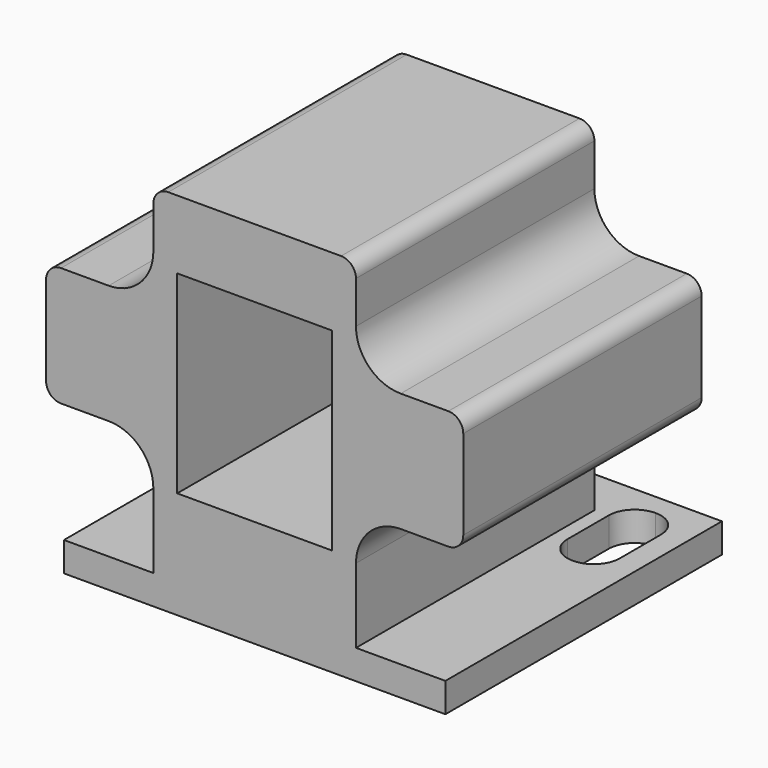
from build123d import *

# Parameters (mm, degrees)
F0_W     = 17.272
F0_H     = 10.16
F0_H_2   = 8.670134
F1_DEPTH = 25.4
F2_W     = 32.512
F2_H     = 2.505866
F3_DEPTH = 4.064
F4_R     = 3.81
F5_R     = 1.27
F6_W     = 13.208
F6_H     = 16.51
F7_DEPTH = 21.844
F9_DEPTH = 5.08


with BuildPart() as f1:
    # F0 (on Front) → F1 (new body)
    with BuildSketch(Plane.XZ):
        Polygon((-16.256, 2.505866), (-16.256, 0), (16.256, 0), (16.256, 2.505866), (8.636, 2.505866), (-8.636, 2.505866), align=None)
        with Locations((0, 7.585866)):
            Rectangle(F0_W, F0_H)
        Polygon((-17.78, 12.665866), (-8.636, 12.665866), (8.636, 12.665866), (17.78, 12.665866), (17.78, 22.825866), (8.636, 22.825866), (-8.636, 22.825866), (-17.78, 22.825866), align=None)
        with Locations((0, 27.160933)):
            Rectangle(F0_W, F0_H_2)
    extrude(amount=-F1_DEPTH)

    # F2 (on face) → F3 (join)
    with BuildSketch(Plane(origin=(0, 25.4, 0), x_dir=(-1, 0, 0), z_dir=(0, 1, 0))):
        with Locations((0, 1.252933)):
            Rectangle(F2_W, F2_H)
    extrude(amount=F3_DEPTH)

    # F4
    f4_edges = [f1.edges().sort_by_distance(p)[0] for p in [
        (-8.636, 12.7, 22.825866),
        (-8.636, 12.7, 12.665866),
        (8.636, 12.7, 12.665866),
        (8.636, 12.7, 22.825866),
    ]]
    fillet(f4_edges, radius=F4_R)

    # F5
    f5_edges = [f1.edges().sort_by_distance(p)[0] for p in [
        (-8.636, 12.7, 31.496),
        (8.636, 12.7, 31.496),
        (17.78, 12.7, 22.825866),
        (17.78, 12.7, 12.665866),
        (-17.78, 12.7, 12.665866),
        (-17.78, 12.7, 22.825866),
    ]]
    fillet(f5_edges, radius=F5_R)

    # F6 (on face) → F7 (cut)
    with BuildSketch(Plane.XZ):
        with Locations((0, 17.399)):
            Rectangle(F6_W, F6_H)
    extrude(amount=-F7_DEPTH, mode=Mode.SUBTRACT)

    # F8 (on face) → F9 (cut)
    with BuildSketch(Plane(origin=(0, 0, 0), x_dir=(1, 0, 0), z_dir=(0, 0, -1))):
        with BuildLine():
            ThreePointArc((-14.2875, -25.4254), (-13.640265, -26.987965), (-12.0777, -27.6352))
            Line((-12.0777, -27.6352), (-12.0523, -27.6352))
            ThreePointArc((-12.0523, -27.6352), (-10.489735, -26.987965), (-9.8425, -25.4254))
            Line((-9.8425, -25.4254), (-9.8425, -21.0312))
            ThreePointArc((-9.8425, -21.0312), (-10.489735, -19.468635), (-12.0523, -18.8214))
            Line((-12.0523, -18.8214), (-12.0777, -18.8214))
            ThreePointArc((-12.0777, -18.8214), (-13.640265, -19.468635), (-14.2875, -21.0312))
            Line((-14.2875, -21.0312), (-14.2875, -25.4254))
        make_face()
        with BuildLine():
            Line((12.0777, -18.8214), (12.0523, -18.8214))
            ThreePointArc((12.0523, -18.8214), (10.489735, -19.468635), (9.8425, -21.0312))
            Line((9.8425, -21.0312), (9.8425, -25.4254))
            ThreePointArc((9.8425, -25.4254), (10.489735, -26.987965), (12.0523, -27.6352))
            Line((12.0523, -27.6352), (12.0777, -27.6352))
            ThreePointArc((12.0777, -27.6352), (13.640265, -26.987965), (14.2875, -25.4254))
            Line((14.2875, -25.4254), (14.2875, -21.0312))
            ThreePointArc((14.2875, -21.0312), (13.640265, -19.468635), (12.0777, -18.8214))
        make_face()
    extrude(amount=-F9_DEPTH, mode=Mode.SUBTRACT)


solid = f1.part
